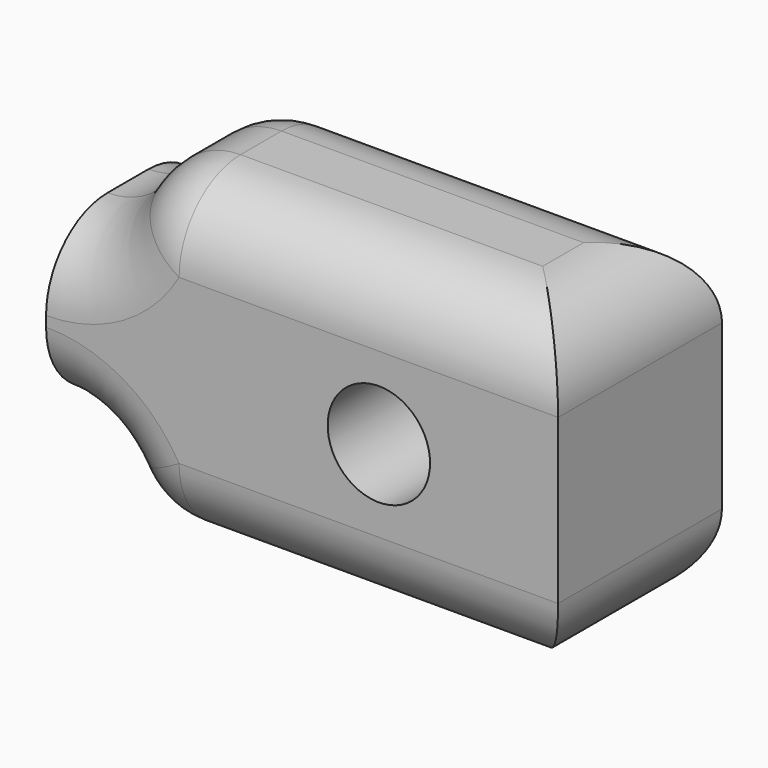
from build123d import *

# Parameters (mm, degrees)
F0_R     = 1
F0_W     = 5
F0_H     = 3.2
F1_DEPTH = 4
F2_R     = 1.5
F3_R     = 1.5
F4_DEPTH = 5
F5_R     = 1.5


with BuildPart() as f1:
    # F0 (on Front) → F1 (new body)
    with BuildSketch(Plane.XZ):
        with BuildLine():
            Line((5, 3.1), (-3.5, 3.1))
            ThreePointArc((-3.5, 3.1), (-3.93934, 2.03934), (-5, 1.6))
            Line((-5, 1.6), (0, 1.6))
            Line((0, 1.6), (0, -1.6))
            Line((0, -1.6), (-5, -1.6))
            ThreePointArc((-5, -1.6), (-3.93934, -2.03934), (-3.5, -3.1))
            Line((-3.5, -3.1), (5, -3.1))
            Line((5, -3.1), (5, 3.1))
        make_face()
        with Locations((1.5, 0)):
            Circle(F0_R, mode=Mode.SUBTRACT)
        with Locations((-2.5, 0)):
            Rectangle(F0_W, F0_H)
    extrude(amount=F1_DEPTH)

    # F2
    f2_edges = [f1.edges().sort_by_distance(p)[0] for p in [
        (-3.5, -2, 3.1),
        (-3.5, -2, -3.1),
    ]]
    fillet(f2_edges, radius=F2_R)

    # F3 (on face) → F4 (cut)
    with BuildSketch(Plane(origin=(-5, 0, 0), x_dir=(0, -1, 0), z_dir=(-1, 0, 0))):
        with Locations((2, 0)):
            Circle(F3_R)
    extrude(amount=-F4_DEPTH, mode=Mode.SUBTRACT)

    # F5
    f5_edges = [f1.edges().sort_by_distance(p)[0] for p in [
        (5, -2, 3.1),
        (1.299038, -4, 3.1),
        (1.299038, 0, 3.1),
        (5, -2, -3.1),
        (1.299038, -4, -3.1),
        (1.299038, 0, -3.1),
    ]]
    fillet(f5_edges, radius=F5_R)


solid = f1.part
